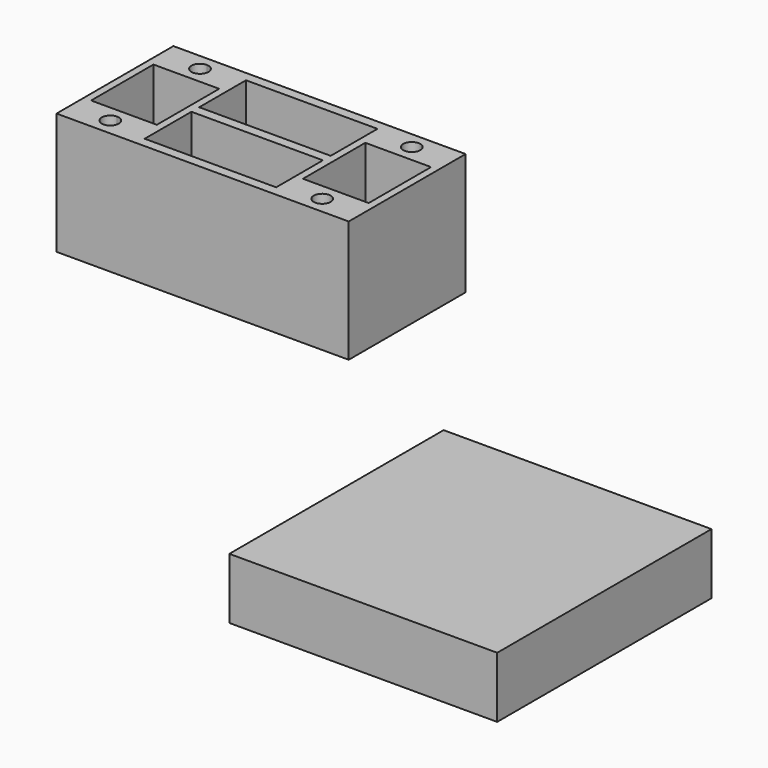
from build123d import *

# Parameters (mm, degrees)
F0_R     = 3.5
F0_W     = 27
F0_H     = 32
F1_DEPTH = 50
F2_W     = 110
F2_H     = 110
F3_DEPTH = 25


with BuildPart() as f1:
    # F0 (on Top) → F1 (new body)
    with BuildSketch(Plane.XY):
        Polygon((60, -30), (60, 30), (27, 30), (-27, 30), (-43.5, 30), (-60, 30), (-60, -30), (-27, -30), (27, -30), align=None)
        with BuildLine():
            ThreePointArc((-43.5, -19.5), (-41.025126, -20.525126), (-40, -23))
            ThreePointArc((-40, -23), (-45.974874, -25.474874), (-43.5, -19.5))
        make_face(mode=Mode.SUBTRACT)
        with Locations((43.5, -23)):
            Circle(F0_R, mode=Mode.SUBTRACT)
        Polygon((27, -26), (22.5, -26), (-22.5, -26), (-27, -26), (-27, -2), (27, -2), align=None, mode=Mode.SUBTRACT)
        Polygon((-30, -16), (-43.5, -16), (-57, -16), (-57, 16), (-30, 16), align=None, mode=Mode.SUBTRACT)
        with BuildLine():
            ThreePointArc((-40, 23), (-45.974874, 20.525126), (-43.5, 26.5))
            ThreePointArc((-43.5, 26.5), (-41.025126, 25.474874), (-40, 23))
        make_face(mode=Mode.SUBTRACT)
        Polygon((22.5, 26), (27, 26), (27, 2), (-27, 2), (-27, 26), (-22.5, 26), align=None, mode=Mode.SUBTRACT)
        with Locations((43.5, 0)):
            Rectangle(F0_W, F0_H, mode=Mode.SUBTRACT)
        with Locations((43.5, 23)):
            Circle(F0_R, mode=Mode.SUBTRACT)
    extrude(amount=F1_DEPTH)


with BuildPart() as f3:
    # F2 (on Top) → F3 (new body)
    with BuildSketch(Plane.XY):
        with Locations((199.274786, -141.6362)):
            Rectangle(F2_W, F2_H)
    extrude(amount=F3_DEPTH)


solid = Compound([f1.part, f3.part])
